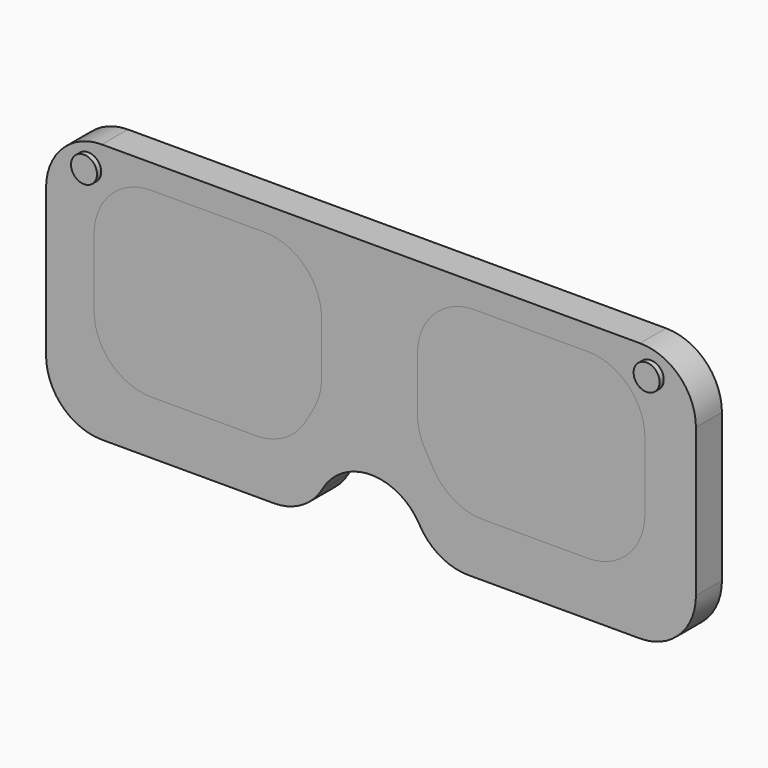
from build123d import *

# Parameters (mm, degrees)
F1_DEPTH = 6.35
F2_R     = 10.922
F4_DEPTH = 25.4
F5_R     = 11.176
F7_DEPTH = 6.35
F8_R     = 2.54
F9_DEPTH = 1.016


with BuildPart() as f1:
    # F0 (on Front) → F1 (new body)
    with BuildSketch(Plane.XZ):
        Polygon((63.5, 40.315186), (-63.5, 40.315186), (-63.5, -10.484814), (-12.7, -10.484814), (0, 11.512231), (12.7, -10.484814), (63.5, -10.484814), align=None)
    extrude(amount=F1_DEPTH)

    # F2
    f2_edges = [f1.edges().sort_by_distance(p)[0] for p in [
        (63.5, -3.175, 40.315186),
        (-63.5, -3.175, 40.315186),
        (-63.5, -3.175, -10.484814),
        (-12.7, -3.175, -10.484814),
        (0, -3.175, 11.512231),
        (12.7, -3.175, -10.484814),
        (63.5, -3.175, -10.484814),
    ]]
    fillet(f2_edges, radius=F2_R)

    # F3 (on Front) → F4 (cut)
    with BuildSketch(Plane.XZ):
        Polygon((-9.671349, 35.56), (-54.121349, 35.56), (-54.121349, 0), (-16.021349, 0), (-9.671349, 10.998523), align=None)
        Polygon((53.526262, 35.56), (9.076262, 35.56), (9.076262, 10.998523), (15.426262, 0), (53.526262, 0), align=None)
    extrude(amount=F4_DEPTH, mode=Mode.SUBTRACT)

    # F5
    f5_edges = [f1.edges().sort_by_distance(p)[0] for p in [
        (-54.121349, -3.175, 35.56),
        (-9.671349, -3.175, 35.56),
        (-9.671349, -3.175, 10.998523),
        (-16.021349, -3.175, 0),
        (-54.121349, -3.175, 0),
        (15.426262, -3.175, 0),
        (9.076262, -3.175, 10.998523),
        (9.076262, -3.175, 35.56),
        (53.526262, -3.175, 35.56),
        (53.526262, -3.175, 0),
    ]]
    fillet(f5_edges, radius=F5_R)


with BuildPart() as f7:
    # F6 (on Front) → F7 (new body)
    with BuildSketch(Plane.XZ):
        with BuildLine():
            Line((-54.121349, 24.384), (-54.121349, 11.176))
            ThreePointArc((-54.121349, 11.176), (-50.847974, 3.273375), (-42.945349, 0))
            Line((-42.945349, 0), (-22.473815, 0))
            ThreePointArc((-22.473815, 0), (-16.885815, 1.4973), (-12.795115, 5.588))
            Line((-12.795115, 5.588), (-11.168649, 8.405123))
            ThreePointArc((-11.168649, 8.405123), (-10.052162, 11.100561), (-9.671349, 13.993123))
            Line((-9.671349, 13.993123), (-9.671349, 24.384))
            ThreePointArc((-9.671349, 24.384), (-12.944723, 32.286625), (-20.847349, 35.56))
            Line((-20.847349, 35.56), (-42.945349, 35.56))
            ThreePointArc((-42.945349, 35.56), (-50.847974, 32.286625), (-54.121349, 24.384))
        make_face()
        with BuildLine():
            Line((9.076262, 24.384), (9.076262, 13.993123))
            ThreePointArc((9.076262, 13.993123), (9.457075, 11.100561), (10.573562, 8.405123))
            Line((10.573562, 8.405123), (12.200029, 5.588))
            ThreePointArc((12.200029, 5.588), (16.290728, 1.4973), (21.878728, 0))
            Line((21.878728, 0), (42.350262, 0))
            ThreePointArc((42.350262, 0), (50.252887, 3.273375), (53.526262, 11.176))
            Line((53.526262, 11.176), (53.526262, 24.384))
            ThreePointArc((53.526262, 24.384), (50.252887, 32.286625), (42.350262, 35.56))
            Line((42.350262, 35.56), (20.252262, 35.56))
            ThreePointArc((20.252262, 35.56), (12.349637, 32.286625), (9.076262, 24.384))
        make_face()
    extrude(amount=F7_DEPTH)


with BuildPart() as f9:
    # F8 (on face) → F9 (new body)
    with BuildSketch(Plane.XZ.offset(6.35)):
        with Locations((54.670222, 35.56)):
            Circle(F8_R)
        with Locations((-55.271573, 35.56)):
            Circle(F8_R)
    extrude(amount=F9_DEPTH)


solid = Compound([f1.part, f7.part, f9.part])
